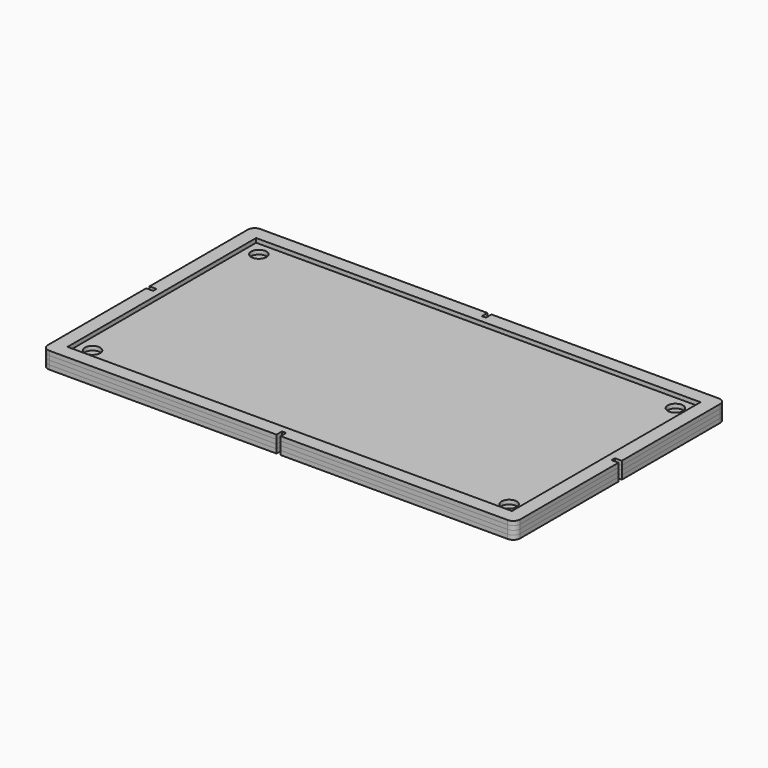
from build123d import *

# Parameters (mm, degrees)
F1_W      = 319.5
F1_H      = 169.5
F2_DEPTH  = 3
F3_R      = 5.5
F4_DEPTH  = 3
F6_DEPTH  = 3
F7_R      = 5.125
F8_DEPTH  = 3
F9_W      = 3
F9_H      = 5
F9_W_2    = 5
F9_H_2    = 3
F10_DEPTH = 12.001


with BuildPart() as f2:
    # F1 (on face) → F2 (new body)
    with BuildSketch(Plane.XY):
        with BuildLine():
            ThreePointArc((169.75, 89.75), (168.285534, 93.285534), (164.75, 94.75))
            Line((164.75, 94.75), (-164.75, 94.75))
            ThreePointArc((-164.75, 94.75), (-168.285534, 93.285534), (-169.75, 89.75))
            Line((-169.75, 89.75), (-169.75, -89.75))
            ThreePointArc((-169.75, -89.75), (-168.285534, -93.285534), (-164.75, -94.75))
            Line((-164.75, -94.75), (164.75, -94.75))
            ThreePointArc((164.75, -94.75), (168.285534, -93.285534), (169.75, -89.75))
            Line((169.75, -89.75), (169.75, 89.75))
        make_face()
        Rectangle(F1_W, F1_H, mode=Mode.SUBTRACT)
    extrude(amount=F2_DEPTH)


with BuildPart() as f4:
    # F3 (on face) → F4 (new body)
    with BuildSketch(Plane(origin=(0, 0, 0), x_dir=(1, 0, 0), z_dir=(0, 0, -1))):
        with BuildLine():
            ThreePointArc((169.75, 89.75), (168.285534, 93.285534), (164.75, 94.75))
            Line((164.75, 94.75), (-164.75, 94.75))
            ThreePointArc((-164.75, 94.75), (-168.285534, 93.285534), (-169.75, 89.75))
            Line((-169.75, 89.75), (-169.75, -89.75))
            ThreePointArc((-169.75, -89.75), (-168.285534, -93.285534), (-164.75, -94.75))
            Line((-164.75, -94.75), (164.75, -94.75))
            ThreePointArc((164.75, -94.75), (168.285534, -93.285534), (169.75, -89.75))
            Line((169.75, -89.75), (169.75, 89.75))
        make_face()
        with Locations((-149.75, -74.75)):
            Circle(F3_R, mode=Mode.SUBTRACT)
        with Locations((149.75, -74.75)):
            Circle(F3_R, mode=Mode.SUBTRACT)
        with Locations((-149.75, 74.75)):
            Circle(F3_R, mode=Mode.SUBTRACT)
        with Locations((149.75, 74.75)):
            Circle(F3_R, mode=Mode.SUBTRACT)
    extrude(amount=F4_DEPTH)


with BuildPart() as f6:
    # F5 (on face) → F6 (new body)
    with BuildSketch(Plane(origin=(0, 0, -3), x_dir=(1, 0, 0), z_dir=(0, 0, -1))):
        with BuildLine():
            Line((169.75, -89.75), (169.75, 89.75))
            ThreePointArc((169.75, 89.75), (168.285534, 93.285534), (164.75, 94.75))
            Line((164.75, 94.75), (-164.75, 94.75))
            ThreePointArc((-164.75, 94.75), (-168.285534, 93.285534), (-169.75, 89.75))
            Line((-169.75, 89.75), (-169.75, -89.75))
            ThreePointArc((-169.75, -89.75), (-168.285534, -93.285534), (-164.75, -94.75))
            Line((-164.75, -94.75), (164.75, -94.75))
            ThreePointArc((164.75, -94.75), (168.285534, -93.285534), (169.75, -89.75))
        make_face()
    extrude(amount=F6_DEPTH)


with BuildPart() as f8:
    # F7 (on face) → F8 (new body)
    with BuildSketch(Plane(origin=(0, 0, -6), x_dir=(1, 0, 0), z_dir=(0, 0, -1))):
        with BuildLine():
            Line((169.75, -89.75), (169.75, 89.75))
            ThreePointArc((169.75, 89.75), (168.285534, 93.285534), (164.75, 94.75))
            Line((164.75, 94.75), (-164.75, 94.75))
            ThreePointArc((-164.75, 94.75), (-168.285534, 93.285534), (-169.75, 89.75))
            Line((-169.75, 89.75), (-169.75, -89.75))
            ThreePointArc((-169.75, -89.75), (-168.285534, -93.285534), (-164.75, -94.75))
            Line((-164.75, -94.75), (164.75, -94.75))
            ThreePointArc((164.75, -94.75), (168.285534, -93.285534), (169.75, -89.75))
        make_face()
        with Locations((-149.75, -74.75)):
            Circle(F7_R, mode=Mode.SUBTRACT)
        with Locations((149.75, -74.75)):
            Circle(F7_R, mode=Mode.SUBTRACT)
        with Locations((-149.75, 74.75)):
            Circle(F7_R, mode=Mode.SUBTRACT)
        with Locations((149.75, 74.75)):
            Circle(F7_R, mode=Mode.SUBTRACT)
    extrude(amount=F8_DEPTH)


with BuildPart() as f10_tool:
    # F9 (on face) → F10 (new body, through all)
    with BuildSketch(Plane.XY.offset(3)):
        with Locations((0, 92.25)):
            Rectangle(F9_W, F9_H)
        with Locations((0, -92.25)):
            Rectangle(F9_W, F9_H)
        with Locations((167.25, 0)):
            Rectangle(F9_W_2, F9_H_2)
        with Locations((-167.25, 0)):
            Rectangle(F9_W_2, F9_H_2)
    extrude(amount=-F10_DEPTH)


with BuildPart() as f2_1:
    add(f2.part)

    # F10: cut by f10_tool
    add(f10_tool.part, mode=Mode.SUBTRACT)


with BuildPart() as f4_1:
    add(f4.part)

    # F10: cut by f10_tool
    add(f10_tool.part, mode=Mode.SUBTRACT)


with BuildPart() as f6_1:
    add(f6.part)

    # F10: cut by f10_tool
    add(f10_tool.part, mode=Mode.SUBTRACT)


with BuildPart() as f8_1:
    add(f8.part)

    # F10: cut by f10_tool
    add(f10_tool.part, mode=Mode.SUBTRACT)


solid = Compound([f2_1.part, f4_1.part, f6_1.part, f8_1.part])
